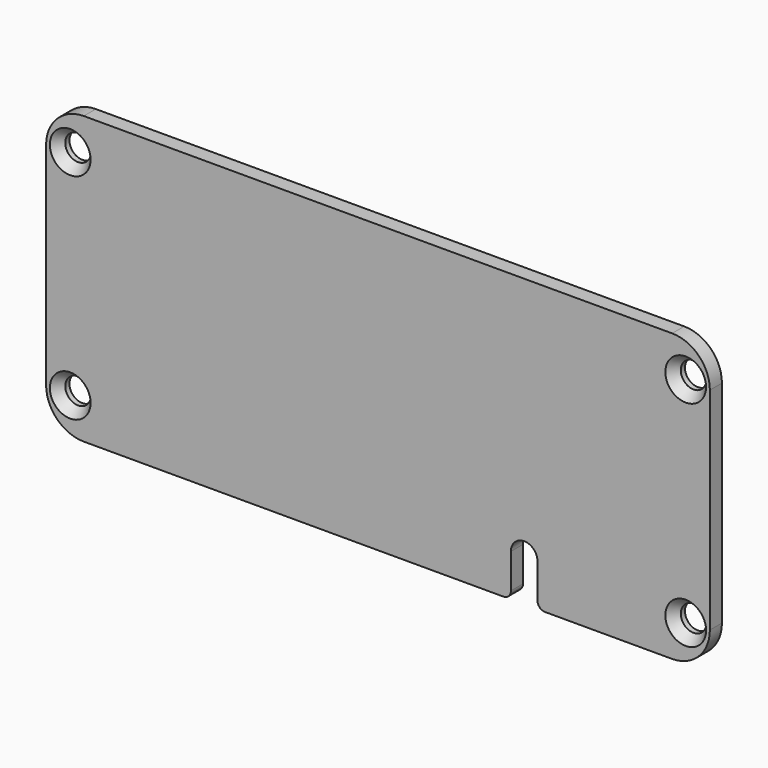
from build123d import *

# Parameters (mm, degrees)
F0_R           = 1.7
F1_DEPTH       = 2
F2_R           = 5
F3_D           = 3
F3_DEPTH       = 13.5
F3_CSINK_D     = 5.4
F3_CSINK_ANGLE = 75
F4_DEPTH       = 25
F5_R           = 1


with BuildPart() as f1:
    # F0 (on Front) → F1 (new body)
    with BuildSketch(Plane.XZ):
        with BuildLine():
            Line((0, 38), (-88, 38))
            Line((-88, 38), (-88, 0))
            Line((-88, 0), (-26.377132, 0))
            Line((-26.377132, 0), (-26.377132, 5.6))
            ThreePointArc((-26.377132, 5.6), (-24.613067, 7.364066), (-22.849001, 5.6))
            Line((-22.849001, 5.6), (-22.849001, 0))
            Line((-22.849001, 0), (0, 0))
            Line((0, 0), (0, 38))
        make_face()
        with Locations((-84.8, 4.8)):
            Circle(F0_R, mode=Mode.SUBTRACT)
        with Locations((-3.2, 4.8)):
            Circle(F0_R, mode=Mode.SUBTRACT)
        with Locations((-84.8, 33.2)):
            Circle(F0_R, mode=Mode.SUBTRACT)
        with Locations((-3.2, 33.2)):
            Circle(F0_R, mode=Mode.SUBTRACT)
        with BuildLine():
            Line((-26.377132, 5.6), (-26.377132, 0))
            Line((-26.377132, 0), (-22.849001, 0))
            Line((-22.849001, 0), (-22.849001, 5.6))
            ThreePointArc((-22.849001, 5.6), (-24.613067, 7.364066), (-26.377132, 5.6))
        make_face()
    extrude(amount=-F1_DEPTH)

    # F2
    f2_edges = [f1.edges().sort_by_distance(p)[0] for p in [
        (-88, 1, 38),
        (-88, 1, 0),
        (0, 1, 0),
        (0, 1, 38),
    ]]
    fillet(f2_edges, radius=F2_R)

    # F3
    with Locations(Plane.XZ):
        with Locations((-84.8, 4.8), (-84.8, 33.2), (-3.2, 4.8), (-3.2, 33.2)):
            CounterSinkHole(F3_D / 2, F3_CSINK_D / 2, depth=F3_DEPTH, counter_sink_angle=F3_CSINK_ANGLE)

    # F0 (on Front) → F4 (cut)
    with BuildSketch(Plane.XZ):
        with BuildLine():
            Line((-26.377132, 5.6), (-26.377132, 0))
            Line((-26.377132, 0), (-22.849001, 0))
            Line((-22.849001, 0), (-22.849001, 5.6))
            ThreePointArc((-22.849001, 5.6), (-24.613067, 7.364066), (-26.377132, 5.6))
        make_face()
    extrude(amount=-F4_DEPTH, mode=Mode.SUBTRACT)

    # F5
    f5_edges = [f1.edges().sort_by_distance(p)[0] for p in [
        (-26.377132, 1, 0),
        (-22.849001, 1, 0),
    ]]
    fillet(f5_edges, radius=F5_R)


solid = f1.part
